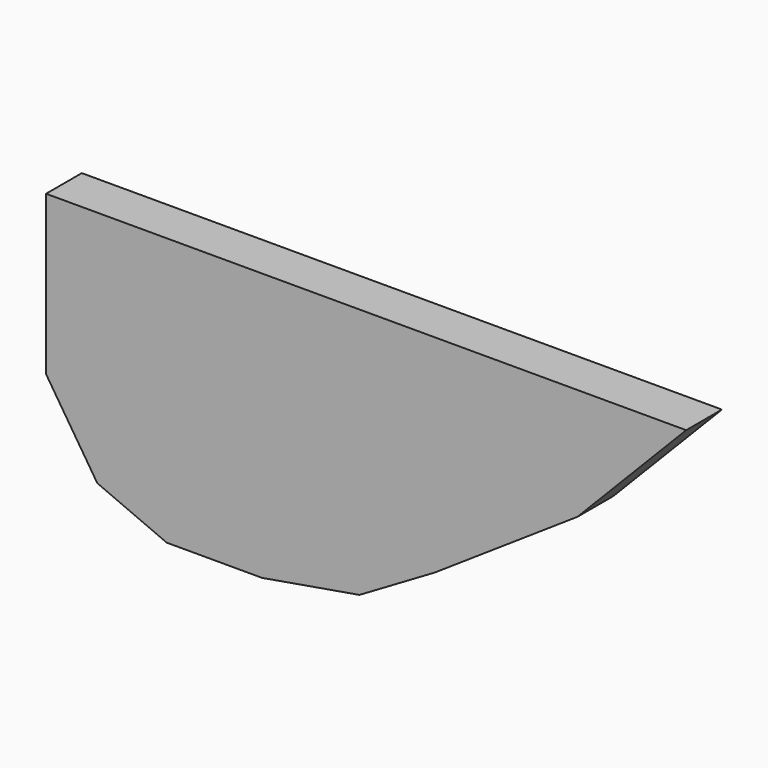
from build123d import *

# Parameters (mm, degrees)
F0_W     = 273.05
F0_H     = 114.3
F1_DEPTH = 19.05
F3_DEPTH = 25.4


with BuildPart() as f1:
    # F0 (on Front) → F1 (new body)
    with BuildSketch(Plane.XZ):
        with Locations((136.525, 57.15)):
            Rectangle(F0_W, F0_H)
    extrude(amount=F1_DEPTH)

    # F2 (on face) → F3 (cut)
    with BuildSketch(Plane.XZ.offset(19.05)):
        Polygon((21.852773, 12.687119), (0, 46.53658), (0, 0), (51.417489, 0), align=None)
        Polygon((273.05, 0), (273.05, 114.3), (226.663426, 66.674866), (165.820092, 25.969818), (133.684531, 7.116954), (92.12254, 0), align=None)
    extrude(amount=-F3_DEPTH, mode=Mode.SUBTRACT)


solid = f1.part
